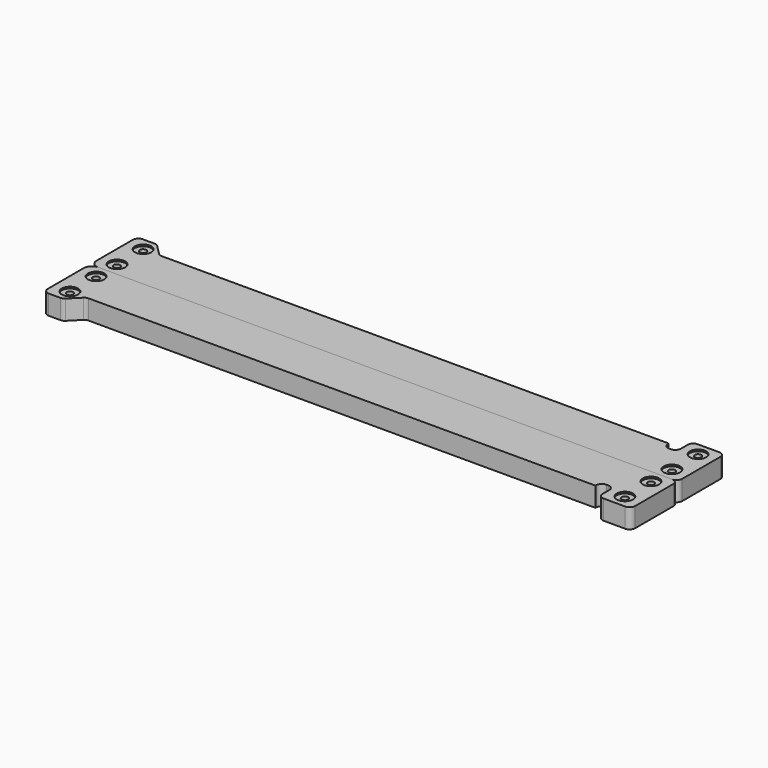
from build123d import *

# Parameters (mm, degrees)
F0_R     = 5
F0_R_2   = 2
F1_DEPTH = 12
F2_R     = 5
F3_DEPTH = 1


with BuildPart() as f1:
    # F0 (on Top) → F1 (new body)
    with BuildSketch(Plane.XY):
        with BuildLine():
            Line((311.85, 28), (1.408326, 28))
            ThreePointArc((1.408326, 28), (0.107202, 28.25881), (-0.995837, 28.995837))
            Line((-0.995837, 28.995837), (-7.004163, 35.004163))
            ThreePointArc((-7.004163, 35.004163), (-8.107202, 35.74119), (-9.408326, 36))
            Line((-9.408326, 36), (-16.6, 36))
            ThreePointArc((-16.6, 36), (-19.004163, 35.004163), (-20, 32.6))
            Line((-20, 32.6), (-20, 4.946767))
            ThreePointArc((-20, 4.946767), (-18.784066, 1.678611), (-15.727663, 0))
            Line((-15.727663, 0), (0, 0))
            Line((0, 0), (329.85, 0))
            Line((329.85, 0), (336.45, 0))
            ThreePointArc((336.45, 0), (338.854163, 0.995837), (339.85, 3.4))
            Line((339.85, 3.4), (339.85, 32.6))
            ThreePointArc((339.85, 32.6), (338.854163, 35.004163), (336.45, 36))
            Line((336.45, 36), (323.25, 36))
            ThreePointArc((323.25, 36), (320.845837, 35.004163), (319.85, 32.6))
            Line((319.85, 32.6), (319.85, 28))
            Line((319.85, 28), (319.85, 27.4))
            ThreePointArc((319.85, 27.4), (318.854163, 24.995837), (316.45, 24))
            Line((316.45, 24), (315.25, 24))
            ThreePointArc((315.25, 24), (312.845837, 24.995837), (311.85, 27.4))
            Line((311.85, 27.4), (311.85, 28))
        make_face()
        with Locations((-10, 8)):
            Circle(F0_R, mode=Mode.SUBTRACT)
        with Locations((329.85, 8)):
            Circle(F0_R, mode=Mode.SUBTRACT)
        with Locations((-10, 28)):
            Circle(F0_R, mode=Mode.SUBTRACT)
        with Locations((329.85, 28)):
            Circle(F0_R, mode=Mode.SUBTRACT)
        with Locations((-10, 28)):
            Circle(F0_R)
        with Locations((-10, 28)):
            Circle(F0_R_2, mode=Mode.SUBTRACT)
        with Locations((-10, 8)):
            Circle(F0_R)
        with Locations((-10, 8)):
            Circle(F0_R_2, mode=Mode.SUBTRACT)
        with Locations((329.85, 8)):
            Circle(F0_R)
        with Locations((329.85, 8)):
            Circle(F0_R_2, mode=Mode.SUBTRACT)
        with Locations((329.85, 28)):
            Circle(F0_R)
        with Locations((329.85, 28)):
            Circle(F0_R_2, mode=Mode.SUBTRACT)
    extrude(amount=F1_DEPTH)

    # F2 (on face) → F3 (cut)
    with BuildSketch(Plane.XY.offset(12)):
        with Locations((329.85, 28)):
            Circle(F2_R)
        with Locations((329.85, 8)):
            Circle(F2_R)
        with Locations((-10, 8)):
            Circle(F2_R)
        with Locations((-10, 28)):
            Circle(F2_R)
    extrude(amount=-F3_DEPTH, mode=Mode.SUBTRACT)


with BuildPart() as f5_1:
    # F5: instance of F1
    add(f1.part.mirror(Plane.XZ))


solid = Compound([f1.part, f5_1.part])
